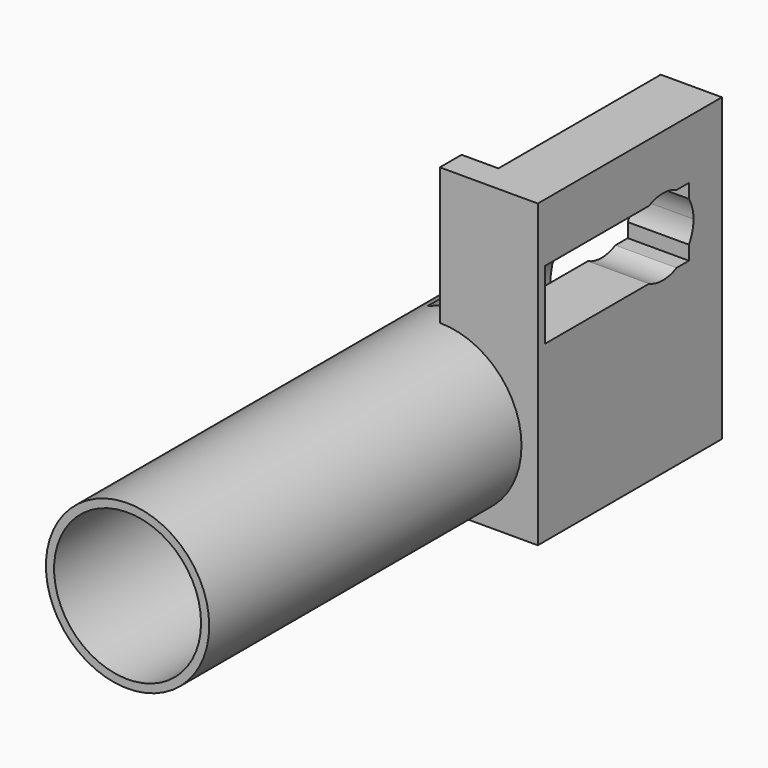
from build123d import *

# Parameters (mm, degrees)
F0_R     = 25
F0_R_2   = 22.5
F1_DEPTH = 190
F2_W     = 70.4685077071
F2_H     = 92.139782384
F3_DEPTH = 30
F4_R     = 22.5
F5_DEPTH = 100
F6_W     = 21.7724195682
F6_H     = 62.1514879167
F7_DEPTH = 100
F9_DEPTH = 100


with BuildPart() as f1:
    # F0 (on Front) → F1 (new body)
    with BuildSketch(Plane.XZ):
        Circle(F0_R)
        Circle(F0_R_2, mode=Mode.SUBTRACT)
    extrude(amount=F1_DEPTH)

    # F2 (on Right) → F3 (join)
    with BuildSketch(Plane.YZ):
        with Locations((-35.2342538536, 20.8604475483)):
            Rectangle(F2_W, F2_H)
    extrude(amount=F3_DEPTH)

    # F4 (on face) → F5 (cut, symmetric)
    with BuildSketch(Plane.XZ.offset(70.4685077071)):
        Circle(F4_R)
    extrude(amount=F5_DEPTH, both=True, mode=Mode.SUBTRACT)

    # F6 (on Top) → F7 (cut)
    with BuildSketch(Plane.XY):
        with Locations((0.3888274077, -31.0757439584)):
            Rectangle(F6_W, F6_H)
    extrude(amount=F7_DEPTH, mode=Mode.SUBTRACT)

    # F8 (on face) → F9 (cut)
    with BuildSketch(Plane.YZ.offset(30)):
        with BuildLine():
            Line((-27.9086115654, 49), (-67.634855788, 49))
            Line((-67.634855788, 49), (-67.634855788, 38.5))
            Line((-67.634855788, 38.5), (-34.384855788, 38.5))
            ThreePointArc((-34.384855788, 38.5), (-32.6355840211, 44.6683008039), (-27.9086115654, 49))
        make_face()
        with BuildLine():
            ThreePointArc((-17.3611000106, 49), (-22.634855788, 50.25), (-27.9086115654, 49))
            Line((-27.9086115654, 49), (-17.3611000106, 49))
        make_face()
        with BuildLine():
            Line((-17.3611000106, 49), (-27.9086115654, 49))
            ThreePointArc((-27.9086115654, 49), (-32.6355840211, 44.6683008039), (-34.384855788, 38.5))
            Line((-34.384855788, 38.5), (-22.634855788, 38.5))
            Line((-22.634855788, 38.5), (-12.634855788, 38.5))
            Line((-12.634855788, 38.5), (-12.634855788, 44.6694813396))
            ThreePointArc((-12.634855788, 44.6694813396), (-14.696956075, 47.1632700608), (-17.3611000106, 49))
        make_face()
        with BuildLine():
            Line((-34.384855788, 38.5), (-67.634855788, 38.5))
            Line((-67.634855788, 38.5), (-67.634855788, 28))
            Line((-67.634855788, 28), (-27.9086115654, 28))
            ThreePointArc((-27.9086115654, 28), (-32.6355840211, 32.3316991961), (-34.384855788, 38.5))
        make_face()
        with BuildLine():
            Line((-12.634855788, 49), (-17.3611000106, 49))
            ThreePointArc((-17.3611000106, 49), (-14.696956075, 47.1632700608), (-12.634855788, 44.6694813396))
            Line((-12.634855788, 44.6694813396), (-12.634855788, 49))
        make_face()
        with BuildLine():
            Line((-22.634855788, 38.5), (-34.384855788, 38.5))
            ThreePointArc((-34.384855788, 38.5), (-32.6355840211, 32.3316991961), (-27.9086115654, 28))
            Line((-27.9086115654, 28), (-17.3611000106, 28))
            ThreePointArc((-17.3611000106, 28), (-14.696956075, 29.8367299392), (-12.634855788, 32.3305186604))
            Line((-12.634855788, 32.3305186604), (-12.634855788, 38.5))
            Line((-12.634855788, 38.5), (-22.634855788, 38.5))
        make_face()
        with BuildLine():
            ThreePointArc((-10.884855788, 38.5), (-11.3308188984, 41.7064388346), (-12.634855788, 44.6694813396))
            Line((-12.634855788, 44.6694813396), (-12.634855788, 38.5))
            Line((-12.634855788, 38.5), (-10.884855788, 38.5))
        make_face()
        with BuildLine():
            Line((-17.3611000106, 28), (-27.9086115654, 28))
            ThreePointArc((-27.9086115654, 28), (-22.634855788, 26.75), (-17.3611000106, 28))
        make_face()
        with BuildLine():
            Line((-10.884855788, 38.5), (-12.634855788, 38.5))
            Line((-12.634855788, 38.5), (-12.634855788, 32.3305186604))
            ThreePointArc((-12.634855788, 32.3305186604), (-11.3308188984, 35.2935611654), (-10.884855788, 38.5))
        make_face()
        with BuildLine():
            ThreePointArc((-12.634855788, 32.3305186604), (-14.696956075, 29.8367299392), (-17.3611000106, 28))
            Line((-17.3611000106, 28), (-12.634855788, 28))
            Line((-12.634855788, 28), (-12.634855788, 32.3305186604))
        make_face()
    extrude(amount=-F9_DEPTH, mode=Mode.SUBTRACT)


solid = f1.part
